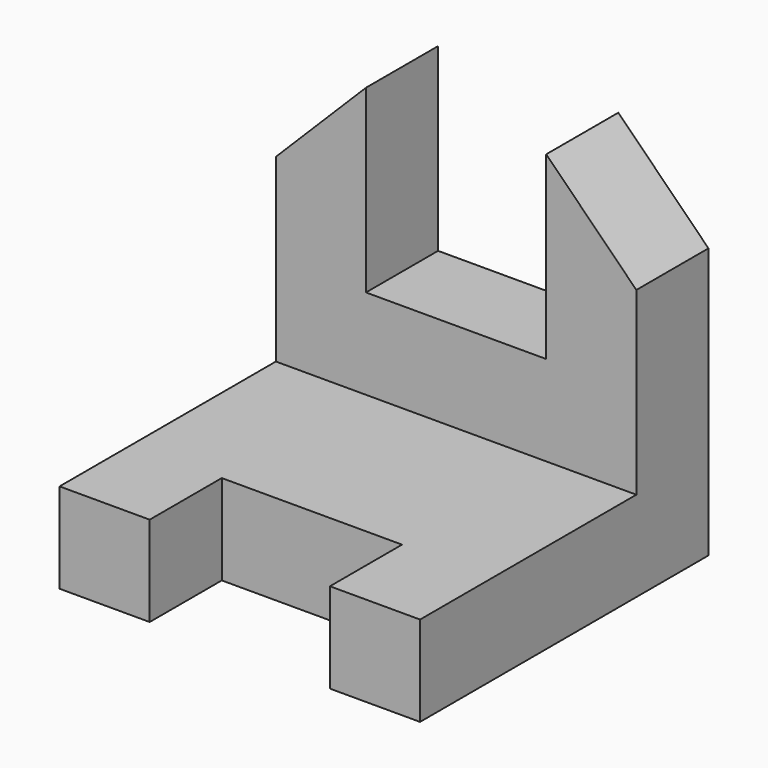
from build123d import *

# Parameters (mm, degrees)
F0_W      = 101.6
F0_H      = 101.6
F1_DEPTH  = 101.6
F2_W      = 76.2
F2_H      = 76.2
F3_DEPTH  = 123.952
F4_W      = 50.8
F4_H      = 50.8
F5_DEPTH  = 25.4
F6_W      = 50.8
F6_H      = 25.4
F7_DEPTH  = 25.4
F9_DEPTH  = 25.4
F11_DEPTH = 25.4


with BuildPart() as f1:
    # F0 (on Front) → F1 (new body)
    with BuildSketch(Plane.XZ):
        with Locations((-50.8, 50.8)):
            Rectangle(F0_W, F0_H)
    extrude(amount=F1_DEPTH)

    # F2 (on face) → F3 (cut)
    with BuildSketch(Plane.YZ):
        with Locations((-63.5, 63.5)):
            Rectangle(F2_W, F2_H)
    extrude(amount=-F3_DEPTH, mode=Mode.SUBTRACT)

    # F4 (on face) → F5 (cut)
    with BuildSketch(Plane.XZ.offset(25.4)):
        with Locations((-50.8, 76.2)):
            Rectangle(F4_W, F4_H)
    extrude(amount=-F5_DEPTH, mode=Mode.SUBTRACT)

    # F6 (on face) → F7 (cut)
    with BuildSketch(Plane.XY.offset(25.4)):
        with Locations((-50.8, -88.9)):
            Rectangle(F6_W, F6_H)
    extrude(amount=-F7_DEPTH, mode=Mode.SUBTRACT)

    # F8 (on face) → F9 (cut)
    with BuildSketch(Plane.XZ.offset(25.4)):
        Polygon((-76.2, 101.6), (-101.6, 101.6), (-101.6, 76.2), align=None)
    extrude(amount=-F9_DEPTH, mode=Mode.SUBTRACT)

    # F10 (on face) → F11 (cut)
    with BuildSketch(Plane.XZ.offset(25.4)):
        Polygon((0, 101.6), (-25.4, 101.6), (0, 76.2), align=None)
    extrude(amount=-F11_DEPTH, mode=Mode.SUBTRACT)


solid = f1.part
